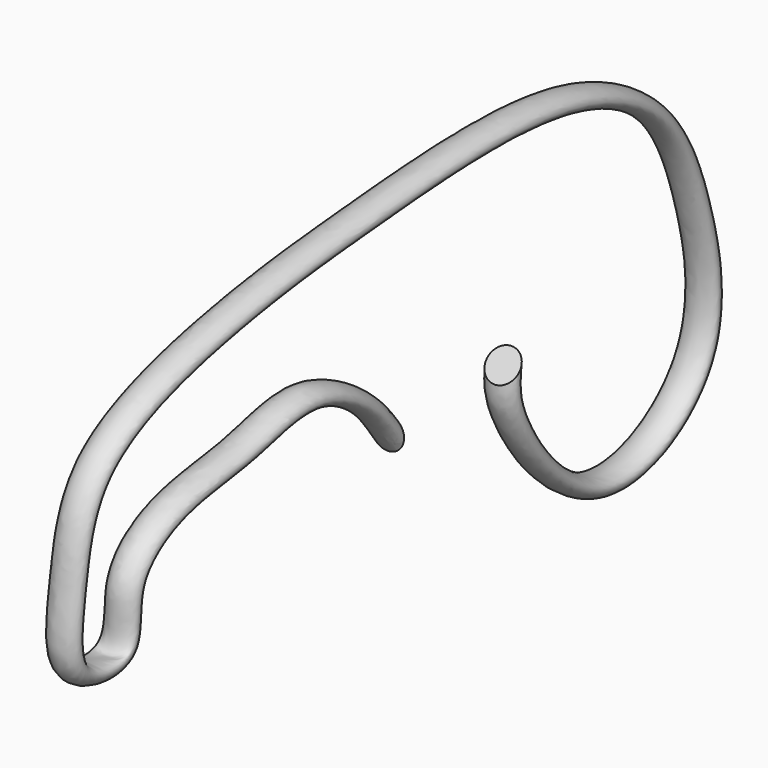
from build123d import *

# Parameters (mm, degrees)
F1_R = 6.35


with BuildPart() as f2:
    # F2: sweep along a path in F0
    with BuildLine(Plane.YZ) as f2_path:
        add(Plane.YZ * Edge.make_bspline(
            [(0, 0), (-3.5780968853, 4.9008228823), (-11.6360450876, 15.9375773919), (-40.6016488882, 32.8036543947), (-71.2841162369, 21.4466941389), (-105.3858748331, 19.7138884759), (-130.0294894719, 2.9689213583), (-123.7899857423, -24.6843066343), (-158.0158374252, -22.4053883874), (-153.0499226962, 11.2736918812), (-147.4157681274, 53.0068988545), (-74.4195414291, 72.1765176373), (-11.8677971024, 78.078347209), (79.1525171552, 85.521894062), (130.643378025, 59.3030673713), (147.7068404898, 18.1888007075), (158.8110300272, -40.1401693828), (93.5931833264, -74.0552085815), (53.9540763433, -17.0041378577), (55.0109332264, -4.3411235845), (55.3732439876, 0)],
            knots=[0, 0, 0, 0, 0.0390555045, 0.087953804, 0.1377355884, 0.189918661, 0.2349570718, 0.2750161025, 0.3150193752, 0.3619414476, 0.4167767243, 0.4890190653, 0.5624195104, 0.6461855607, 0.7104836816, 0.7685390258, 0.8327331959, 0.8974472358, 0.9648429502, 1, 1, 1, 1], degree=3))
    # F1 (on Front) → F2 (sweep)
    with BuildSketch(Plane.XZ):
        Circle(F1_R)
    sweep(path=f2_path.line)


solid = f2.part
